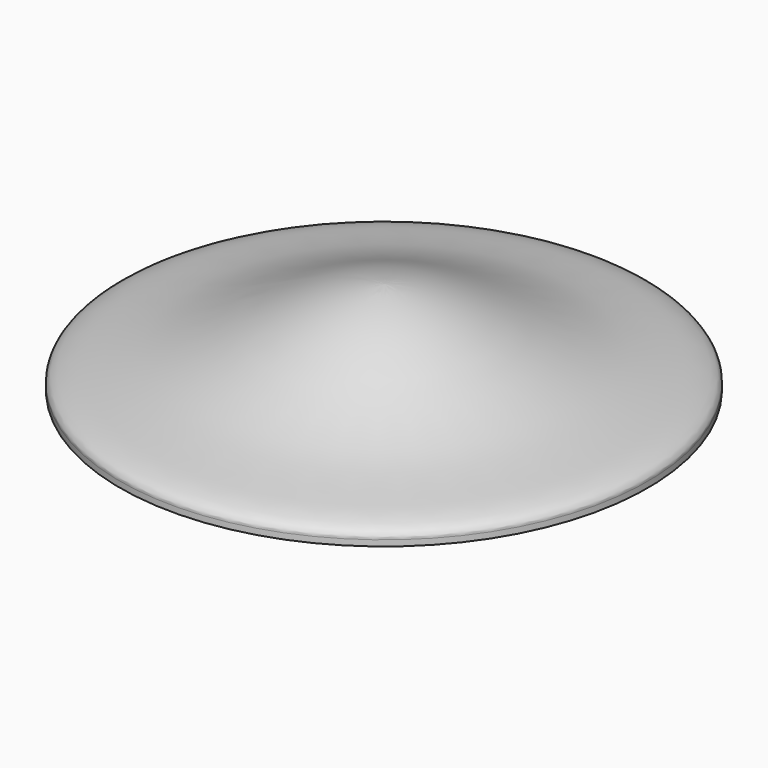
from build123d import *

# Parameters (mm, degrees)
F2_SIZE = 2


with BuildPart() as f1:
    # F0 (on Front) → F1 (revolve)
    with BuildSketch(Plane.XZ):
        with BuildLine():
            Line((-45.8, 0), (-45.8, 11))
            ThreePointArc((-45.8, 11), (-45.5071067812, 11.7071067812), (-44.8, 12))
            Line((-44.8, 12), (-44.3, 12))
            ThreePointArc((-44.3, 12), (-43.5928932188, 11.7071067812), (-43.3, 11))
            Line((-43.3, 11), (-43.3, 0))
            Line((-43.3, 0), (0, 0))
            Line((0, 0), (0, 32))
            add(Edge.make_bspline(
                [(-90, 2), (-90.5330671849, 6.8488253632), (-59.4130176149, 7.1934611227), (-23.5412910562, 28.2445364194), (-4.9153288672, 31.9213468405), (0, 32)],
                knots=[0, 0, 0, 0, 0.3082512777, 0.7215797844, 1, 1, 1, 1], degree=3))
            Line((-90, 2), (-90, 0))
            Line((-90, 0), (-45.8, 0))
        make_face()
    revolve(axis=Axis((0, 0, 19.3410310894), (0, 0, 1)))

    # F2
    f2_edges = [f1.edges().sort_by_distance(p)[0] for p in [
        (43.3, 0, 0),
        (45.8, 0, 0),
    ]]
    chamfer(f2_edges, length=F2_SIZE)


solid = f1.part
